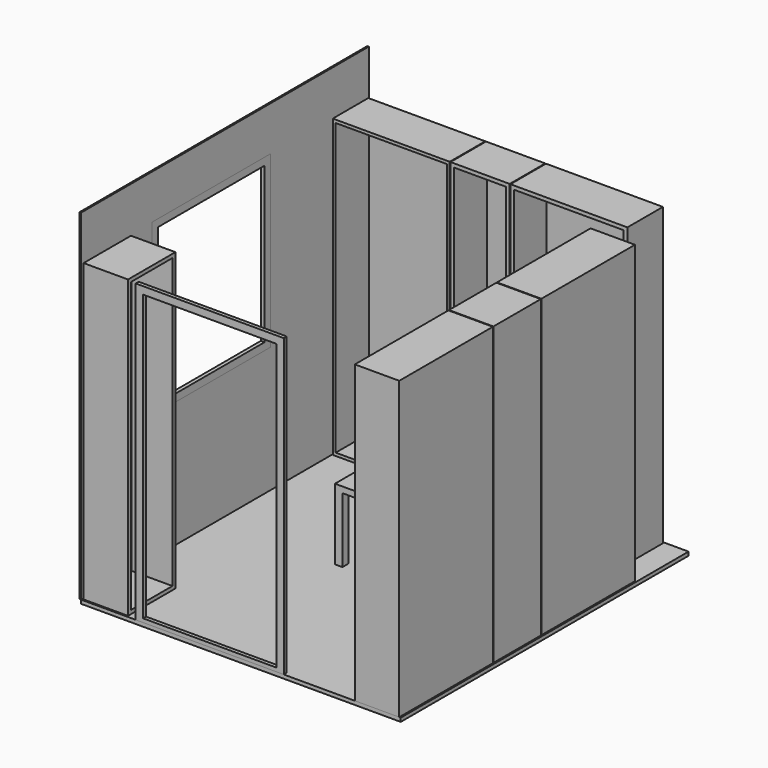
from build123d import *

# Parameters (mm, degrees)
F3_W      = 790
F3_H      = 300
F4_DEPTH  = 2000
F2_W      = 400
F2_H      = 300
F5_DEPTH  = 2000
F1_W      = 300
F1_H      = 790
F6_DEPTH  = 2000
F7_W      = 300
F7_H      = 400
F8_DEPTH  = 2000
F9_W      = 300
F9_H      = 790
F10_DEPTH = 2000
F11_T     = -20
F12_T     = -25
F13_W     = 300
F13_H     = 400
F14_DEPTH = 2000
F15_T     = -25
F17_W     = 10
F17_H     = 2430
F18_DEPTH = 2300
F16_W     = 1000
F16_H     = 2000
F19_DEPTH = 25
F20_W     = 1000
F20_H     = 1150
F21_DEPTH = 25
F22_W     = 900
F22_H     = 1925
F23_DEPTH = 25
F24_W     = 900
F24_H     = 1050
F25_DEPTH = 25
F26_W     = 790
F26_H     = 300
F27_DEPTH = 2000
F28_T     = -25
F29_T     = -25
F29_2_T   = -25
F29_3_T   = -25
F0_W      = 2160
F0_H      = 2430
F30_DEPTH = 25
F31_W     = 430
F31_H     = 330
F32_DEPTH = 440
F34_DEPTH = 440
F36_W     = 430
F36_H     = 330
F37_DEPTH = 40


with BuildPart() as f4:
    # F3 (on Top) → F4 (new body)
    with BuildSketch(Plane.XY):
        with Locations((400, 2270)):
            Rectangle(F3_W, F3_H)
    extrude(amount=F4_DEPTH)

    # F11
    f11_openings = [f4.faces().sort_by_distance(p)[0] for p in [
        (400, 2120, 1000),
    ]]
    offset(amount=F11_T, openings=f11_openings)


with BuildPart() as f5:
    # F2 (on Top) → F5 (new body)
    with BuildSketch(Plane.XY):
        with Locations((1000, 2270)):
            Rectangle(F2_W, F2_H)
    extrude(amount=F5_DEPTH)

    # F12
    f12_openings = [f5.faces().sort_by_distance(p)[0] for p in [
        (1000, 2120, 1000),
    ]]
    offset(amount=F12_T, openings=f12_openings)


with BuildPart() as f6:
    # F1 (on Top) → F6 (new body)
    with BuildSketch(Plane.XY):
        with Locations((2000, 1595)):
            Rectangle(F1_W, F1_H)
    extrude(amount=F6_DEPTH)

    # F29
    f29_openings = [f6.faces().sort_by_distance(p)[0] for p in [
        (1850, 1595, 1000),
    ]]
    offset(amount=F29_T, openings=f29_openings)


with BuildPart() as f8:
    # F7 (on Top) → F8 (new body)
    with BuildSketch(Plane.XY):
        with Locations((2000, 995)):
            Rectangle(F7_W, F7_H)
    extrude(amount=F8_DEPTH)

    # F29#2
    f29_2_openings = [f8.faces().sort_by_distance(p)[0] for p in [
        (1850, 995, 1000),
    ]]
    offset(amount=F29_2_T, openings=f29_2_openings)


with BuildPart() as f10:
    # F9 (on Top) → F10 (new body)
    with BuildSketch(Plane.XY):
        with Locations((2000, 395)):
            Rectangle(F9_W, F9_H)
    extrude(amount=F10_DEPTH)

    # F29#3
    f29_3_openings = [f10.faces().sort_by_distance(p)[0] for p in [
        (1850, 395, 1000),
    ]]
    offset(amount=F29_3_T, openings=f29_3_openings)


with BuildPart() as f14:
    # F13 (on Top) → F14 (new body)
    with BuildSketch(Plane.XY):
        with Locations((160, 210)):
            Rectangle(F13_W, F13_H)
    extrude(amount=F14_DEPTH)

    # F15
    f15_openings = [f14.faces().sort_by_distance(p)[0] for p in [
        (310, 210, 1000),
    ]]
    offset(amount=F15_T, openings=f15_openings)


with BuildPart() as f18:
    # F17 (on face) → F18 (new body)
    with BuildSketch(Plane.XY):
        with Locations((-5, 1215)):
            Rectangle(F17_W, F17_H)
    extrude(amount=F18_DEPTH)


with BuildPart() as f19:
    # F16 (on Front) → F19 (new body)
    with BuildSketch(Plane.XZ):
        with Locations((870, 1000)):
            Rectangle(F16_W, F16_H)
    extrude(amount=-F19_DEPTH)

    # F22 (on face) → F23 (cut)
    with BuildSketch(Plane.XZ):
        with Locations((870, 987.5)):
            Rectangle(F22_W, F22_H)
    extrude(amount=-F23_DEPTH, mode=Mode.SUBTRACT)


with BuildPart() as f21:
    # F20 (on Right) → F21 (new body)
    with BuildSketch(Plane.YZ):
        with Locations((1100, 1425)):
            Rectangle(F20_W, F20_H)
    extrude(amount=-F21_DEPTH)


with BuildPart() as f25_tool:
    # F24 (on face) → F25 (new body, symmetric)
    with BuildSketch(Plane(origin=(-25, 0, 0), x_dir=(0, -1, 0), z_dir=(-1, 0, 0))):
        with Locations((-1100, 1425)):
            Rectangle(F24_W, F24_H)
    extrude(amount=F25_DEPTH, both=True)


with BuildPart() as f18_1:
    add(f18.part)

    # F25: cut by f25_tool
    add(f25_tool.part, mode=Mode.SUBTRACT)


with BuildPart() as f21_1:
    add(f21.part)

    # F25: cut by f25_tool
    add(f25_tool.part, mode=Mode.SUBTRACT)


with BuildPart() as f27:
    # F26 (on face) → F27 (new body)
    with BuildSketch(Plane.XY):
        with Locations((1600, 2270)):
            Rectangle(F26_W, F26_H)
    extrude(amount=F27_DEPTH)

    # F28
    f28_openings = [f27.faces().sort_by_distance(p)[0] for p in [
        (1600, 2120, 1000),
    ]]
    offset(amount=F28_T, openings=f28_openings)


with BuildPart() as f30:
    # F0 (on Top) → F30 (new body)
    with BuildSketch(Plane.XY):
        with Locations((1080, 1215)):
            Rectangle(F0_W, F0_H)
    extrude(amount=-F30_DEPTH)

    # F31 (on face) → F32 (join)
    with BuildSketch(Plane.XY):
        with Locations((1010.2578735352, 1315.7700681686)):
            Rectangle(F31_W, F31_H)
    extrude(amount=F32_DEPTH)

    # F33 (on face) → F34 (cut)
    with BuildSketch(Plane.XY.offset(440)):
        Polygon((1175.2578735352, 1480.7700681686), (845.2578735352, 1480.7700681686), (845.2578735352, 1430.7700681686), (795.2578735352, 1430.7700681686), (795.2578735352, 1200.7700681686), (845.2578735352, 1200.7700681686), (845.2578735352, 1150.7700681686), (1175.2578735352, 1150.7700681686), (1175.2578735352, 1200.7700681686), (1225.2578735352, 1200.7700681686), (1225.2578735352, 1430.7700681686), (1175.2578735352, 1430.7700681686), align=None)
    extrude(amount=-F34_DEPTH, mode=Mode.SUBTRACT)

    # F36 (on mid) → F37 (join)
    with BuildSketch(Plane.XY.offset(440)):
        with Locations((1010.2578735352, 1315.7700681686)):
            Rectangle(F36_W, F36_H)
    extrude(amount=F37_DEPTH)


solid = Compound([f4.part, f5.part, f6.part, f8.part, f10.part, f14.part, f19.part, f18_1.part, f21_1.part, f27.part, f30.part])
